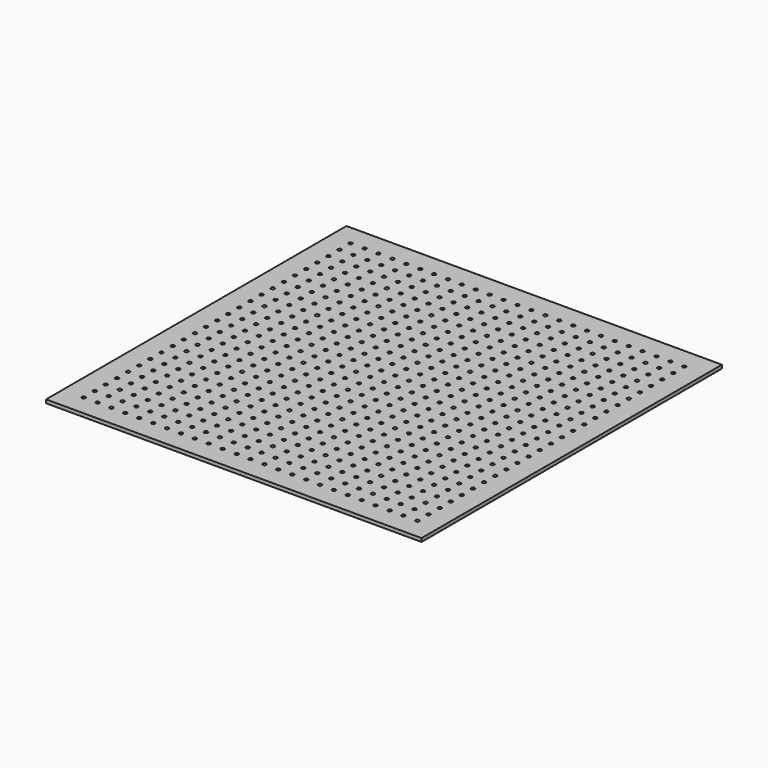
from build123d import *

# Parameters (mm, degrees)
F0_W     = 685.8
F0_H     = 685.8
F1_DEPTH = 6.35
F2_D     = 6.5278
F3_D     = 6.5278
F4_D     = 6.5278
F5_D     = 6.5278
F6_D     = 6.5278
F7_D     = 6.5278
F8_D     = 6.5278


with BuildPart() as f1:
    # F0 (on Top) → F1 (new body)
    with BuildSketch(Plane.XY):
        with Locations((342.9, 342.9)):
            Rectangle(F0_W, F0_H)
    extrude(amount=F1_DEPTH)

    # F2 (through all)
    with Locations(Plane(origin=(0, 0, 0), x_dir=(1, 0, 0), z_dir=(0, 0, -1))):
        with Locations((266.7, -165.1), (139.7, -266.7), (88.9, -165.1), (38.1, -215.9), (139.7, -114.3), (215.9, -241.3), (190.5, -63.5), (266.7, -190.5), (88.9, -190.5), (38.1, -241.3), (139.7, -139.7), (215.9, -266.7), (190.5, -88.9), (266.7, -215.9), (241.3, -38.1), (88.9, -215.9), (63.5, -38.1), (38.1, -266.7), (139.7, -165.1), (190.5, -114.3), (266.7, -241.3), (241.3, -63.5), (88.9, -241.3), (63.5, -63.5), (139.7, -190.5), (190.5, -139.7), (266.7, -266.7), (241.3, -88.9), (190.5, -165.1), (139.7, -215.9), (241.3, -114.3), (63.5, -88.9), (114.3, -38.1), (88.9, -266.7), (241.3, -139.7), (63.5, -114.3), (114.3, -63.5), (190.5, -190.5), (139.7, -241.3), (63.5, -139.7), (114.3, -88.9), (165.1, -38.1), (241.3, -165.1), (63.5, -165.1), (114.3, -114.3), (190.5, -241.3), (165.1, -63.5), (241.3, -190.5), (63.5, -241.3), (114.3, -190.5), (215.9, -88.9), (165.1, -139.7), (266.7, -38.1), (241.3, -266.7), (63.5, -190.5), (114.3, -139.7), (190.5, -266.7), (165.1, -88.9), (241.3, -215.9), (215.9, -38.1), (88.9, -38.1), (63.5, -266.7), (114.3, -215.9), (215.9, -114.3), (165.1, -165.1), (266.7, -63.5), (63.5, -215.9), (114.3, -165.1), (165.1, -114.3), (241.3, -241.3), (215.9, -63.5), (88.9, -63.5), (114.3, -241.3), (215.9, -139.7), (165.1, -190.5), (266.7, -88.9), (38.1, -63.5), (38.1, -88.9), (38.1, -114.3), (88.9, -88.9), (38.1, -139.7), (38.1, -38.1), (139.7, -38.1), (114.3, -266.7), (215.9, -165.1), (165.1, -215.9), (266.7, -114.3), (88.9, -114.3), (38.1, -165.1), (139.7, -63.5), (215.9, -190.5), (165.1, -241.3), (266.7, -139.7), (88.9, -139.7), (38.1, -190.5), (139.7, -88.9), (215.9, -215.9), (190.5, -38.1), (165.1, -266.7), (190.5, -215.9)):
            Hole(F2_D / 2)

    # F3 (through all)
    with Locations(Plane(origin=(0, 0, 0), x_dir=(1, 0, 0), z_dir=(0, 0, -1))):
        with Locations((241.3, -393.7), (215.9, -393.7), (88.9, -317.5), (63.5, -393.7), (139.7, -520.7), (114.3, -342.9), (190.5, -469.9), (165.1, -292.1), (241.3, -419.1), (63.5, -419.1), (114.3, -368.3), (190.5, -495.3), (165.1, -317.5), (241.3, -444.5), (63.5, -444.5), (114.3, -393.7), (215.9, -292.1), (190.5, -520.7), (165.1, -342.9), (241.3, -469.9), (63.5, -469.9), (38.1, -292.1), (114.3, -419.1), (215.9, -317.5), (165.1, -368.3), (241.3, -495.3), (165.1, -393.7), (241.3, -520.7), (215.9, -342.9), (266.7, -292.1), (38.1, -317.5), (114.3, -444.5), (63.5, -495.3), (215.9, -368.3), (266.7, -317.5), (38.1, -342.9), (114.3, -469.9), (88.9, -292.1), (63.5, -520.7), (165.1, -419.1), (266.7, -342.9), (38.1, -368.3), (114.3, -495.3), (165.1, -444.5), (38.1, -393.7), (114.3, -520.7), (88.9, -342.9), (165.1, -469.9), (139.7, -292.1), (215.9, -419.1), (266.7, -368.3), (38.1, -469.9), (139.7, -368.3), (88.9, -419.1), (190.5, -317.5), (266.7, -444.5), (215.9, -495.3), (38.1, -419.1), (88.9, -368.3), (165.1, -495.3), (139.7, -317.5), (215.9, -444.5), (266.7, -393.7), (38.1, -495.3), (139.7, -393.7), (88.9, -444.5), (190.5, -342.9), (266.7, -469.9), (241.3, -292.1), (215.9, -520.7), (38.1, -444.5), (88.9, -393.7), (190.5, -292.1), (165.1, -520.7), (139.7, -342.9), (215.9, -469.9), (266.7, -419.1), (63.5, -292.1), (38.1, -520.7), (139.7, -419.1), (88.9, -469.9), (190.5, -368.3), (266.7, -495.3), (241.3, -317.5), (63.5, -317.5), (139.7, -444.5), (88.9, -495.3), (190.5, -393.7), (266.7, -520.7), (241.3, -342.9), (63.5, -342.9), (139.7, -469.9), (114.3, -292.1), (88.9, -520.7), (190.5, -419.1), (241.3, -368.3), (63.5, -368.3), (139.7, -495.3), (114.3, -317.5), (190.5, -444.5)):
            Hole(F3_D / 2)

    # F4 (through all)
    with Locations(Plane(origin=(0, 0, 0), x_dir=(1, 0, 0), z_dir=(0, 0, -1))):
        with Locations((317.5, -114.3), (368.3, -63.5), (393.7, -241.3), (444.5, -190.5), (317.5, -139.7), (419.1, -38.1), (393.7, -266.7), (368.3, -88.9), (444.5, -215.9), (495.3, -165.1), (317.5, -165.1), (419.1, -63.5), (368.3, -114.3), (444.5, -241.3), (495.3, -190.5), (317.5, -190.5), (419.1, -88.9), (368.3, -139.7), (444.5, -266.7), (495.3, -215.9), (469.9, -38.1), (292.1, -38.1), (317.5, -215.9), (419.1, -114.3), (368.3, -165.1), (495.3, -241.3), (469.9, -63.5), (317.5, -241.3), (292.1, -63.5), (368.3, -190.5), (419.1, -139.7), (469.9, -88.9), (520.7, -38.1), (495.3, -266.7), (317.5, -266.7), (292.1, -88.9), (368.3, -215.9), (342.9, -38.1), (419.1, -165.1), (469.9, -114.3), (520.7, -63.5), (292.1, -114.3), (368.3, -241.3), (342.9, -63.5), (419.1, -190.5), (469.9, -139.7), (520.7, -88.9), (495.3, -139.7), (393.7, -38.1), (368.3, -266.7), (342.9, -88.9), (419.1, -215.9), (469.9, -165.1), (520.7, -114.3), (292.1, -139.7), (342.9, -165.1), (292.1, -215.9), (419.1, -241.3), (469.9, -190.5), (520.7, -139.7), (393.7, -114.3), (444.5, -63.5), (469.9, -241.3), (520.7, -190.5), (292.1, -165.1), (393.7, -63.5), (342.9, -114.3), (342.9, -190.5), (292.1, -241.3), (393.7, -139.7), (469.9, -215.9), (520.7, -165.1), (444.5, -88.9), (495.3, -38.1), (469.9, -266.7), (520.7, -215.9), (292.1, -190.5), (393.7, -88.9), (342.9, -139.7), (444.5, -38.1), (419.1, -266.7), (342.9, -215.9), (317.5, -38.1), (292.1, -266.7), (393.7, -165.1), (444.5, -114.3), (495.3, -63.5), (520.7, -241.3), (520.7, -266.7), (342.9, -241.3), (317.5, -63.5), (393.7, -190.5), (444.5, -139.7), (495.3, -88.9), (342.9, -266.7), (317.5, -88.9), (393.7, -215.9), (368.3, -38.1), (444.5, -165.1), (495.3, -114.3)):
            Hole(F4_D / 2)

    # F5 (through all)
    with Locations(Plane(origin=(0, 0, 0), x_dir=(1, 0, 0), z_dir=(0, 0, -1))):
        with Locations((342.9, -292.1), (317.5, -520.7), (292.1, -342.9), (368.3, -469.9), (419.1, -419.1), (520.7, -317.5), (342.9, -317.5), (292.1, -368.3), (368.3, -495.3), (419.1, -444.5), (469.9, -393.7), (520.7, -342.9), (342.9, -342.9), (292.1, -393.7), (393.7, -292.1), (368.3, -520.7), (419.1, -469.9), (469.9, -419.1), (520.7, -368.3), (342.9, -368.3), (292.1, -419.1), (393.7, -317.5), (419.1, -495.3), (469.9, -444.5), (520.7, -393.7), (342.9, -393.7), (292.1, -444.5), (393.7, -342.9), (419.1, -520.7), (444.5, -292.1), (469.9, -469.9), (520.7, -419.1), (292.1, -469.9), (342.9, -419.1), (393.7, -368.3), (469.9, -495.3), (444.5, -317.5), (520.7, -444.5), (292.1, -495.3), (342.9, -444.5), (393.7, -393.7), (469.9, -520.7), (444.5, -342.9), (520.7, -469.9), (495.3, -292.1), (317.5, -292.1), (292.1, -520.7), (342.9, -469.9), (393.7, -419.1), (444.5, -368.3), (520.7, -495.3), (495.3, -317.5), (469.9, -368.3), (342.9, -495.3), (393.7, -444.5), (444.5, -393.7), (520.7, -520.7), (495.3, -342.9), (317.5, -317.5), (317.5, -393.7), (393.7, -469.9), (444.5, -419.1), (495.3, -368.3), (393.7, -520.7), (368.3, -342.9), (419.1, -292.1), (495.3, -419.1), (444.5, -469.9), (317.5, -342.9), (368.3, -292.1), (342.9, -520.7), (317.5, -419.1), (368.3, -368.3), (444.5, -444.5), (495.3, -393.7), (419.1, -317.5), (495.3, -444.5), (444.5, -495.3), (317.5, -368.3), (368.3, -317.5), (393.7, -495.3), (317.5, -444.5), (368.3, -393.7), (419.1, -342.9), (495.3, -469.9), (469.9, -292.1), (444.5, -520.7), (317.5, -469.9), (292.1, -292.1), (368.3, -419.1), (419.1, -368.3), (495.3, -495.3), (469.9, -317.5), (317.5, -495.3), (292.1, -317.5), (368.3, -444.5), (419.1, -393.7), (495.3, -520.7), (469.9, -342.9), (520.7, -292.1)):
            Hole(F5_D / 2)

    # F6 (through all)
    with Locations(Plane(origin=(0, 0, 0), x_dir=(1, 0, 0), z_dir=(0, 0, -1))):
        with Locations((647.7, -393.7), (596.9, -444.5), (622.3, -215.9), (546.1, -88.9), (571.5, -266.7), (596.9, -38.1), (571.5, -292.1), (546.1, -520.7), (546.1, -114.3), (622.3, -241.3), (596.9, -469.9), (596.9, -63.5), (647.7, -419.1), (571.5, -317.5), (546.1, -139.7), (647.7, -38.1), (622.3, -266.7), (596.9, -495.3), (596.9, -88.9), (647.7, -444.5), (571.5, -342.9), (546.1, -165.1), (647.7, -63.5), (622.3, -292.1), (596.9, -520.7), (596.9, -114.3), (647.7, -469.9), (571.5, -368.3), (546.1, -190.5), (647.7, -88.9), (622.3, -317.5), (596.9, -139.7), (647.7, -495.3), (546.1, -215.9), (596.9, -165.1), (571.5, -393.7), (647.7, -520.7), (647.7, -114.3), (622.3, -342.9), (546.1, -241.3), (596.9, -190.5), (571.5, -419.1), (647.7, -139.7), (622.3, -368.3), (546.1, -266.7), (571.5, -444.5), (596.9, -215.9), (571.5, -38.1), (647.7, -165.1), (622.3, -393.7), (546.1, -495.3), (546.1, -292.1), (596.9, -241.3), (571.5, -469.9), (571.5, -63.5), (647.7, -190.5), (622.3, -419.1), (546.1, -317.5), (622.3, -38.1), (596.9, -266.7), (571.5, -88.9), (571.5, -495.3), (647.7, -215.9), (622.3, -444.5), (571.5, -139.7), (546.1, -368.3), (622.3, -495.3), (622.3, -88.9), (596.9, -317.5), (647.7, -266.7), (546.1, -342.9), (622.3, -63.5), (596.9, -292.1), (571.5, -114.3), (571.5, -520.7), (647.7, -241.3), (622.3, -469.9), (571.5, -165.1), (546.1, -393.7), (622.3, -520.7), (622.3, -114.3), (596.9, -342.9), (647.7, -292.1), (571.5, -190.5), (546.1, -419.1), (622.3, -139.7), (596.9, -368.3), (647.7, -317.5), (571.5, -215.9), (546.1, -444.5), (546.1, -38.1), (622.3, -165.1), (596.9, -393.7), (647.7, -342.9), (622.3, -190.5), (596.9, -419.1), (647.7, -368.3), (571.5, -241.3), (546.1, -469.9), (546.1, -63.5)):
            Hole(F6_D / 2)

    # F7 (through all)
    with Locations(Plane(origin=(0, 0, 0), x_dir=(1, 0, 0), z_dir=(0, 0, -1))):
        with Locations((266.7, -571.5), (215.9, -622.3), (38.1, -622.3), (88.9, -571.5), (266.7, -596.9), (215.9, -647.7), (317.5, -546.1), (38.1, -647.7), (139.7, -546.1), (88.9, -596.9), (266.7, -622.3), (317.5, -571.5), (139.7, -571.5), (88.9, -622.3), (266.7, -647.7), (317.5, -596.9), (368.3, -546.1), (139.7, -596.9), (88.9, -647.7), (190.5, -546.1), (317.5, -622.3), (368.3, -571.5), (139.7, -622.3), (190.5, -571.5), (368.3, -596.9), (317.5, -647.7), (241.3, -546.1), (190.5, -596.9), (368.3, -622.3), (139.7, -647.7), (368.3, -647.7), (63.5, -546.1), (241.3, -571.5), (190.5, -622.3), (63.5, -571.5), (241.3, -596.9), (190.5, -647.7), (292.1, -546.1), (63.5, -647.7), (114.3, -596.9), (165.1, -546.1), (292.1, -622.3), (342.9, -571.5), (114.3, -546.1), (63.5, -596.9), (241.3, -622.3), (292.1, -571.5), (114.3, -622.3), (165.1, -571.5), (292.1, -647.7), (342.9, -596.9), (114.3, -571.5), (63.5, -622.3), (241.3, -647.7), (292.1, -596.9), (342.9, -546.1), (114.3, -647.7), (165.1, -596.9), (215.9, -546.1), (342.9, -622.3), (38.1, -546.1), (165.1, -622.3), (215.9, -571.5), (342.9, -647.7), (38.1, -571.5), (165.1, -647.7), (266.7, -546.1), (215.9, -596.9), (38.1, -596.9), (88.9, -546.1)):
            Hole(F7_D / 2)

    # F8 (through all)
    with Locations(Plane(origin=(0, 0, 0), x_dir=(1, 0, 0), z_dir=(0, 0, -1))):
        with Locations((393.7, -647.7), (444.5, -596.9), (495.3, -546.1), (495.3, -571.5), (444.5, -622.3), (622.3, -647.7), (495.3, -596.9), (444.5, -647.7), (546.1, -546.1), (495.3, -622.3), (546.1, -571.5), (495.3, -647.7), (546.1, -596.9), (596.9, -546.1), (419.1, -546.1), (596.9, -571.5), (546.1, -622.3), (419.1, -571.5), (596.9, -596.9), (546.1, -647.7), (647.7, -546.1), (419.1, -596.9), (469.9, -546.1), (596.9, -622.3), (647.7, -571.5), (622.3, -622.3), (419.1, -622.3), (469.9, -571.5), (596.9, -647.7), (647.7, -596.9), (419.1, -647.7), (469.9, -596.9), (520.7, -546.1), (647.7, -622.3), (469.9, -647.7), (520.7, -596.9), (571.5, -546.1), (393.7, -546.1), (469.9, -622.3), (520.7, -571.5), (647.7, -647.7), (520.7, -622.3), (571.5, -571.5), (393.7, -571.5), (520.7, -647.7), (622.3, -546.1), (571.5, -596.9), (622.3, -571.5), (571.5, -622.3), (393.7, -596.9), (444.5, -546.1), (622.3, -596.9), (571.5, -647.7), (393.7, -622.3), (444.5, -571.5)):
            Hole(F8_D / 2)


solid = f1.part
